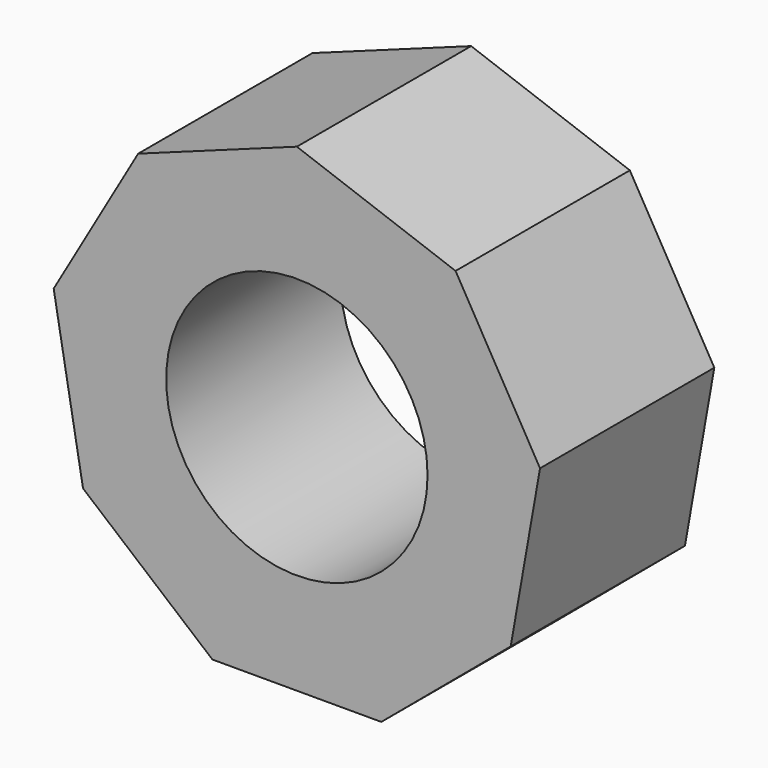
from build123d import *

# Parameters (mm, degrees)
F1_DEPTH = 25
F2_R     = 15
F3_DEPTH = 44.4


with BuildPart() as f1:
    # F0 (on Front) → F1 (new body)
    with BuildSketch(Plane.XZ):
        Polygon((-9.69169, -26.627699), (9.69169, -26.627699), (24.54022, -14.168303), (27.906109, 4.9206), (18.214419, 21.707099), (0, 28.336605), (-18.214419, 21.707099), (-27.906109, 4.9206), (-24.54022, -14.168303), align=None)
    extrude(amount=F1_DEPTH)

    # F2 (on face) → F3 (cut)
    with BuildSketch(Plane.XZ.offset(25)):
        Circle(F2_R)
    extrude(amount=-F3_DEPTH, mode=Mode.SUBTRACT)


solid = f1.part
